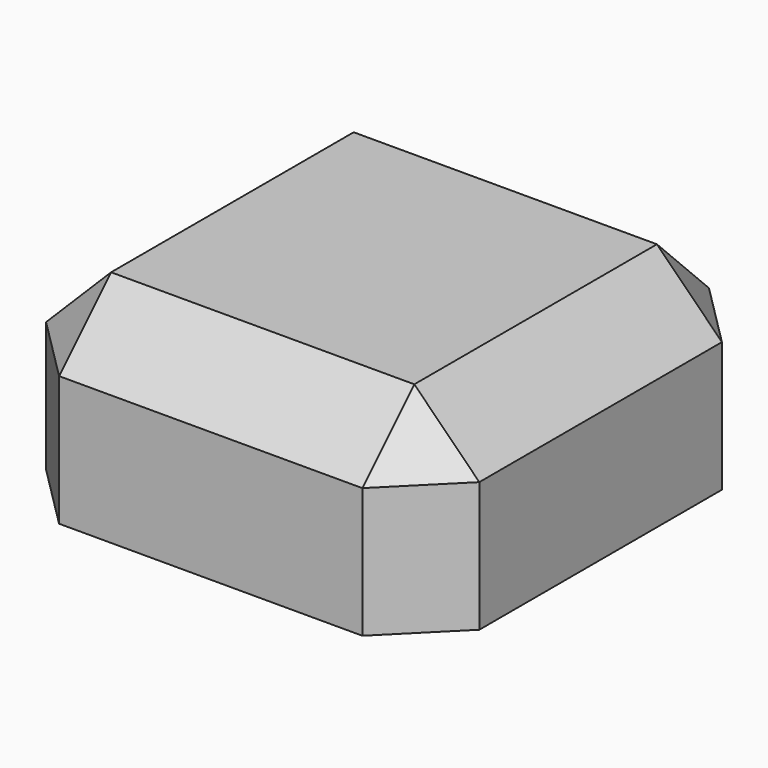
from build123d import *

# Parameters (mm, degrees)
F0_W     = 10
F0_H     = 10
F0_W_2   = 7
F0_H_2   = 7
F1_DEPTH = 1
F2_DEPTH = 3.5
F3_SIZE  = 1.5


with BuildPart() as f1:
    # F0 (on Top) → F1 (new body)
    with BuildSketch(Plane.XY):
        Rectangle(F0_W, F0_H)
        Rectangle(F0_W_2, F0_H_2, mode=Mode.SUBTRACT)
        Rectangle(F0_W_2, F0_H_2)
    extrude(amount=F1_DEPTH)

    # F0 (on Top) → F2 (join)
    with BuildSketch(Plane.XY):
        Rectangle(F0_W, F0_H)
        Rectangle(F0_W_2, F0_H_2, mode=Mode.SUBTRACT)
    extrude(amount=-F2_DEPTH)

    # F3
    f3_edges = [f1.edges().sort_by_distance(p)[0] for p in [
        (5, -5, -1.25),
        (-5, -5, -1.25),
        (-5, 5, -1.25),
        (5, 5, -1.25),
        (0, -5, 1),
        (0, 5, 1),
        (-5, 0, 1),
        (5, 0, 1),
    ]]
    chamfer(f3_edges, length=F3_SIZE)


solid = f1.part
